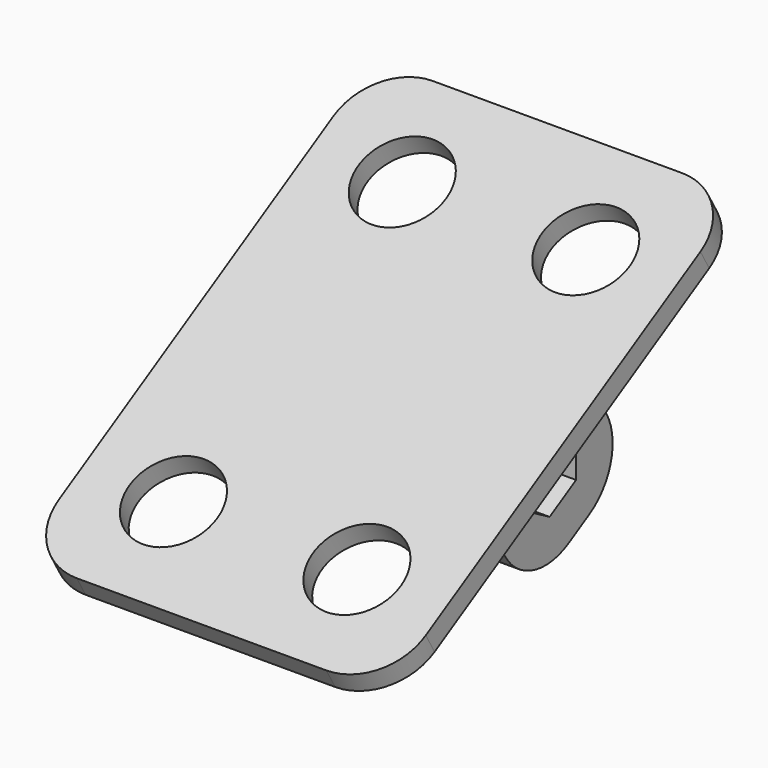
from build123d import *

# Parameters (mm, degrees)
SKETCH070_W             = 50
SKETCH070_H             = 70
SKETCH070_R             = 6
PAD035_DEPTH            = 3
SKETCH072_W             = 20
SKETCH072_H             = 25
PAD036_DEPTH            = 12.5
SKETCH071_W             = 40
SKETCH071_H             = 33
POCKET028_DEPTH         = 5.5
FILLET001_R             = 8
CHAMFER002_SIZE         = 1
BODY015_PLACEMENT_ANGLE = 210


with BuildPart() as part:
    # Sketch070 → Pad035 (new body)
    with BuildSketch(Plane.XY):
        with Locations((0, 5)):
            Rectangle(SKETCH070_W, SKETCH070_H)
        with Locations((-12.5, 27.5)):
            Circle(SKETCH070_R, mode=Mode.SUBTRACT)
        with Locations((12.5, 27.5)):
            Circle(SKETCH070_R, mode=Mode.SUBTRACT)
        with Locations((-12.5, -17.5)):
            Circle(SKETCH070_R, mode=Mode.SUBTRACT)
        with Locations((12.5, -17.5)):
            Circle(SKETCH070_R, mode=Mode.SUBTRACT)
    extrude(amount=-PAD035_DEPTH)

    # Sketch072 → Pad036 (join, symmetric)
    with BuildSketch(Plane.YZ):
        with Locations((0, 12.5)):
            Rectangle(SKETCH072_W, SKETCH072_H)
        Polygon((2.6, 10.496668), (5.2, 15), (2.6, 19.503332), (-2.6, 19.503332), (-5.2, 15), (-2.6, 10.496668), align=None, mode=Mode.SUBTRACT)
    extrude(amount=PAD036_DEPTH, both=True)

    # Sketch071 → Pocket028 (cut, symmetric)
    with BuildSketch(Plane.YZ):
        with Locations((0, 18.5)):
            Rectangle(SKETCH071_W, SKETCH071_H)
    extrude(amount=POCKET028_DEPTH, both=True, mode=Mode.SUBTRACT)

    # Fillet001
    fillet001_edges = [part.edges().sort_by_distance(p)[0] for p in [
        (-25, -30, -1.5),
        (-25, 40, -1.5),
        (25, 40, -1.5),
        (25, -30, -1.5),
        (-9, 10, 25),
        (9, 10, 25),
        (-9, -10, 25),
        (9, -10, 25),
    ]]
    fillet(fillet001_edges, radius=FILLET001_R)

    # Chamfer002
    chamfer002_edges = [part.edges().sort_by_distance(p)[0] for p in [
        (12.5, 0, 0),
        (-12.5, 0, 0),
    ]]
    chamfer(chamfer002_edges, length=CHAMFER002_SIZE)


with BuildPart() as part_1:
    # Body015 placement: moved
    add(part.part.moved(Location((65, 77.285671, 90.10746))).rotate(Axis((65, 77.285671, 90.10746), (1, 0, 0)), BODY015_PLACEMENT_ANGLE))


solid = part_1.part
